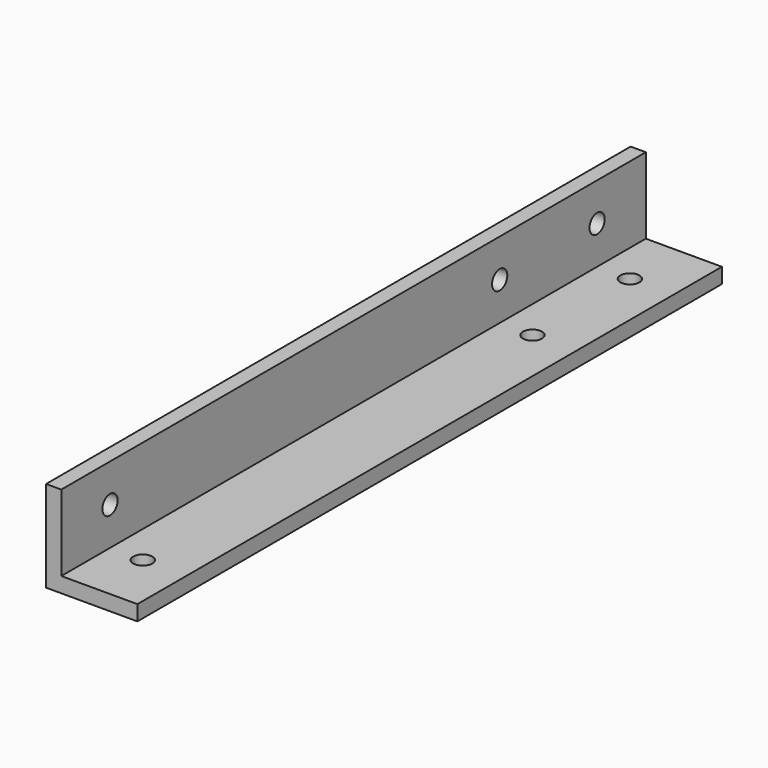
from build123d import *

# Parameters (mm, degrees)
F1_DEPTH = 152.4
F3_D     = 7.9375
F5_D     = 7.9375


with BuildPart() as f1:
    # F0 (on Front) → F1 (new body, symmetric)
    with BuildSketch(Plane.XZ):
        Polygon((0, 38.1), (0, 0), (38.1, 0), (38.1, 6.35), (6.35, 6.35), (6.35, 38.1), align=None)
    extrude(amount=F1_DEPTH, both=True)

    # F3 (through all)
    with Locations(Plane.XY.offset(6.35)):
        with Locations((20.025469, -127), (20.025469, 76.2), (20.025469, 127)):
            Hole(F3_D / 2)

    # F5 (through all)
    with Locations(Plane.YZ.offset(6.35)):
        with Locations((-127, 22.225), (76.2, 22.225), (127, 22.225)):
            Hole(F5_D / 2)


solid = f1.part
